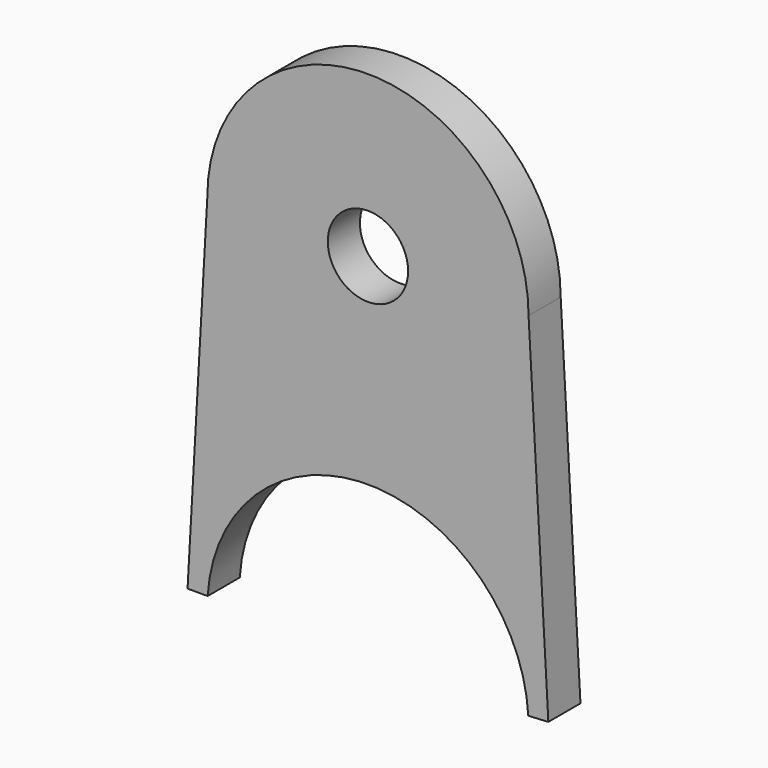
from build123d import *

# Parameters (mm, degrees)
F0_R     = 6.35
F1_DEPTH = 6.35


with BuildPart() as f1:
    # F0 (on Front) → F1 (new body)
    with BuildSketch(Plane.XZ):
        with BuildLine():
            Line((28.529742, -55.542386), (25.4, 0))
            ThreePointArc((25.4, 0), (0, 25.4), (-25.4, 0))
            Line((-25.4, 0), (-28.529742, -55.542386))
            Line((-28.529742, -55.542386), (-25.349074, -55.542386))
            ThreePointArc((-25.349074, -55.542386), (0.089472, -31.750158), (25.359771, -55.721009))
            Line((25.359771, -55.721009), (28.529742, -55.542386))
        make_face()
        Circle(F0_R, mode=Mode.SUBTRACT)
    extrude(amount=F1_DEPTH)


solid = f1.part
